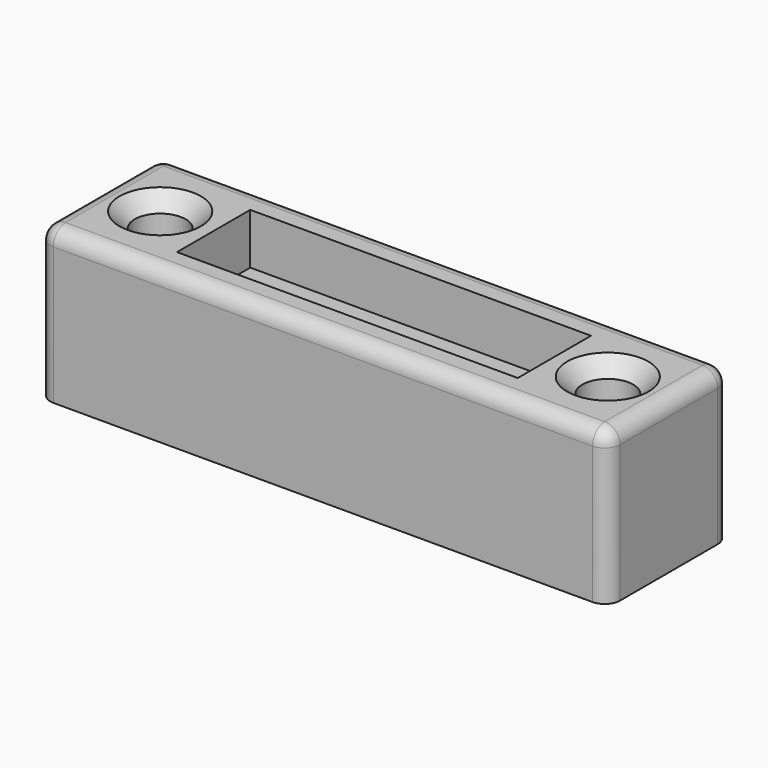
from build123d import *

# Parameters (mm, degrees)
F0_W           = 27
F0_H           = 6
F1_DEPTH       = 15
F3_R           = 1.5
F2_W           = 33.5
F2_H           = 9
F2_W_2         = 27
F2_H_2         = 6
F4_DEPTH       = 5
F5_D           = 5
F5_CSINK_D     = 8
F5_CSINK_ANGLE = 90


with BuildPart() as f1:
    # F0 (on Top) → F1 (new body)
    with BuildSketch(Plane.XY):
        with BuildLine():
            Line((-26.5, -7.5), (26.5, -7.5))
            ThreePointArc((26.5, -7.5), (27.5606601718, -7.0606601718), (28, -6))
            Line((28, -6), (28, 6))
            ThreePointArc((28, 6), (27.5606601718, 7.0606601718), (26.5, 7.5))
            Line((26.5, 7.5), (-26.5, 7.5))
            ThreePointArc((-26.5, 7.5), (-27.5606601718, 7.0606601718), (-28, 6))
            Line((-28, 6), (-28, -6))
            ThreePointArc((-28, -6), (-27.5606601718, -7.0606601718), (-26.5, -7.5))
        make_face()
        Rectangle(F0_W, F0_H, mode=Mode.SUBTRACT)
    extrude(amount=F1_DEPTH)

    # F3
    f3_edges = [f1.edges().sort_by_distance(p)[0] for p in [
        (0, -7.5, 15),
        (27.56066, -7.06066, 15),
        (28, 0, 15),
        (27.56066, 7.06066, 15),
        (0, 7.5, 15),
        (-27.56066, 7.06066, 15),
        (-28, 0, 15),
        (-27.56066, -7.06066, 15),
        (13.5, 0, 15),
        (0, -3, 15),
        (-13.5, 0, 15),
        (0, 3, 15),
    ]]
    fillet(f3_edges, radius=F3_R)

    # F2 (on face) → F4 (cut)
    with BuildSketch(Plane.XY.offset(15)):
        Rectangle(F2_W, F2_H)
        Rectangle(F2_W_2, F2_H_2, mode=Mode.SUBTRACT)
    extrude(amount=-F4_DEPTH, mode=Mode.SUBTRACT)

    # F5 (through all)
    with Locations(Plane.XY.offset(15)):
        with Locations((-22, 0), (22, 0)):
            CounterSinkHole(F5_D / 2, F5_CSINK_D / 2, counter_sink_angle=F5_CSINK_ANGLE)


solid = f1.part
